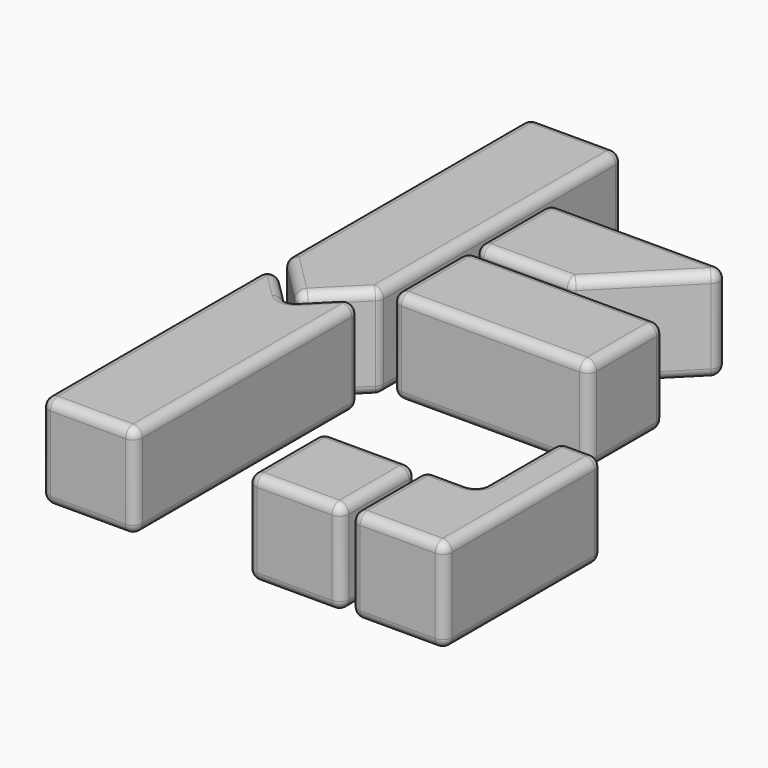
from build123d import *

# Parameters (mm, degrees)
F2_DEPTH = 10
F1_W     = 20
F1_H     = 20
F4_R     = 2
F5_R     = 2
F6_R     = 2
F7_R     = 2
F8_R     = 2
F9_R     = 2


with BuildPart() as f2:
    # F1 (on Top) → F2 (new body, symmetric)
    with BuildSketch(Plane.XY):
        Polygon((-23, 0), (-23, 9), (-23, 12), (-23, 27), (-23, 41.5857864376), (-33, 31.5857864376), (-43, 41.5857864376), (-43, -21), (-23, -21), align=None)
    extrude(amount=F2_DEPTH, both=True)

    # F9
    f9_edges = [f2.edges().sort_by_distance(p)[0] for p in [
        (-23, 10.292893, 10),
        (-28, 36.585786, 10),
        (-38, 36.585786, 10),
        (-43, 10.292893, 10),
        (-33, -21, 10),
        (-23, 41.585786, 0),
        (-23, -21, 0),
        (-23, 10.292893, -10),
        (-28, 36.585786, -10),
        (-38, 36.585786, -10),
        (-43, 10.292893, -10),
        (-33, -21, -10),
        (-43, 41.585786, 0),
        (-43, -21, 0),
        (-33, 31.585786, 0),
    ]]
    fillet(f9_edges, radius=F9_R)


with BuildPart() as f2b:
    # F1 (on Top) → F2, piece 2 (new body, symmetric)
    with BuildSketch(Plane.XY):
        Polygon((-33, 34.4142135624), (-23, 44.4142135624), (-23, 109), (-43, 109), (-43, 44.4142135624), align=None)
    extrude(amount=F2_DEPTH, both=True)

    # F8
    f8_edges = [f2b.edges().sort_by_distance(p)[0] for p in [
        (-28, 39.414214, -10),
        (-23, 76.707107, -10),
        (-33, 109, -10),
        (-43, 76.707107, -10),
        (-38, 39.414214, -10),
        (-23, 44.414214, 0),
        (-23, 109, 0),
        (-23, 76.707107, 10),
        (-28, 39.414214, 10),
        (-33, 109, 10),
        (-43, 76.707107, 10),
        (-38, 39.414214, 10),
        (-43, 44.414214, 0),
        (-43, 109, 0),
        (-33, 34.414214, 0),
    ]]
    fillet(f8_edges, radius=F8_R)


with BuildPart() as f2c:
    # F1 (on Top) → F2, piece 3 (new body, symmetric)
    with BuildSketch(Plane.XY):
        with Locations((-11, 99)):
            Rectangle(F1_W, F1_H)
    extrude(amount=F2_DEPTH, both=True)


with BuildPart() as f2d:
    # F1 (on Top) → F2, piece 4 (new body, symmetric)
    with BuildSketch(Plane.XY):
        with Locations((11, 99)):
            Rectangle(F1_W, F1_H)
    extrude(amount=F2_DEPTH, both=True)


with BuildPart() as f2e:
    # F1 (on Top) → F2, piece 5 (new body, symmetric)
    with BuildSketch(Plane.XY):
        with Locations((33, 99)):
            Rectangle(F1_W, F1_H)
    extrude(amount=F2_DEPTH, both=True)


with BuildPart() as f2f:
    # F1 (on Top) → F2, piece 6 (new body, symmetric)
    with BuildSketch(Plane.XY):
        Polygon((-0.4142135624, 67), (19.5857864376, 87), (0, 87), (-21, 87), (-21, 67), align=None)
    extrude(amount=F2_DEPTH, both=True)

    # F7
    f7_edges = [f2f.edges().sort_by_distance(p)[0] for p in [
        (9.585786, 77, 10),
        (-0.707107, 87, 10),
        (-21, 77, 10),
        (-10.707107, 67, 10),
        (-21, 87, 0),
        (-21, 77, -10),
        (-21, 67, 0),
        (9.585786, 77, -10),
        (-0.707107, 87, -10),
        (-10.707107, 67, -10),
        (19.585786, 87, 0),
        (-0.414214, 67, 0),
    ]]
    fillet(f7_edges, radius=F7_R)


with BuildPart() as f2g:
    # F1 (on Top) → F2, piece 7 (new body, symmetric)
    with BuildSketch(Plane.XY):
        Polygon((43, 87), (22.4142135624, 87), (2.4142135624, 67), (27, 67), (43, 67), align=None)
    extrude(amount=F2_DEPTH, both=True)


with BuildPart() as f2h:
    # F1 (on Top) → F2, piece 8 (new body, symmetric)
    with BuildSketch(Plane.XY):
        Polygon((-21, 45), (21, 45), (21, 65), (0, 65), (-21, 65), align=None)
    extrude(amount=F2_DEPTH, both=True)

    # F5
    f5_edges = [f2h.edges().sort_by_distance(p)[0] for p in [
        (21, 45, 0),
        (21, 55, -10),
        (21, 65, 0),
        (21, 55, 10),
        (0, 45, -10),
        (0, 45, 10),
        (-21, 45, 0),
        (0, 65, 10),
        (-21, 55, 10),
        (0, 65, -10),
        (-21, 55, -10),
        (-21, 65, 0),
    ]]
    fillet(f5_edges, radius=F5_R)


with BuildPart() as f2i:
    # F1 (on Top) → F2, piece 9 (new body, symmetric)
    with BuildSketch(Plane.XY):
        with Locations((33, 55)):
            Rectangle(F1_W, F1_H)
    extrude(amount=F2_DEPTH, both=True)


with BuildPart() as f2j:
    # F1 (on Top) → F2, piece 10 (new body, symmetric)
    with BuildSketch(Plane.XY):
        Polygon((-21, 43), (-21, 23), (0, 23), (21, 23), (21, 43), align=None)
    extrude(amount=F2_DEPTH, both=True)


with BuildPart() as f2k:
    # F1 (on Top) → F2, piece 11 (new body, symmetric)
    with BuildSketch(Plane.XY):
        Polygon((23, 1), (32, 1), (32, 23), (43, 23), (43, 43), (23, 43), (23, 27), align=None)
    extrude(amount=F2_DEPTH, both=True)


with BuildPart() as f2l:
    # F1 (on Top) → F2, piece 12 (new body, symmetric)
    with BuildSketch(Plane.XY):
        Polygon((34, 21), (34, -1), (23, -1), (23, -21), (43, -21), (43, 21), align=None)
    extrude(amount=F2_DEPTH, both=True)

    # F6
    f6_edges = [f2l.edges().sort_by_distance(p)[0] for p in [
        (34, 10, -10),
        (28.5, -1, -10),
        (23, -11, -10),
        (33, -21, -10),
        (43, 0, -10),
        (38.5, 21, -10),
        (34, 10, 10),
        (28.5, -1, 10),
        (23, -11, 10),
        (33, -21, 10),
        (43, 0, 10),
        (38.5, 21, 10),
        (34, 21, 0),
        (43, 21, 0),
        (34, -1, 0),
        (23, -1, 0),
        (23, -21, 0),
        (43, -21, 0),
    ]]
    fillet(f6_edges, radius=F6_R)


with BuildPart() as f2m:
    # F1 (on Top) → F2, piece 13 (new body, symmetric)
    with BuildSketch(Plane.XY):
        with Locations((-11, 11)):
            Rectangle(F1_W, F1_H)
    extrude(amount=F2_DEPTH, both=True)


with BuildPart() as f2n:
    # F1 (on Top) → F2, piece 14 (new body, symmetric)
    with BuildSketch(Plane.XY):
        with Locations((11, 11)):
            Rectangle(F1_W, F1_H)
    extrude(amount=F2_DEPTH, both=True)


with BuildPart() as f2o:
    # F1 (on Top) → F2, piece 15 (new body, symmetric)
    with BuildSketch(Plane.XY):
        with Locations((-11, -11)):
            Rectangle(F1_W, F1_H)
    extrude(amount=F2_DEPTH, both=True)


with BuildPart() as f2p:
    # F1 (on Top) → F2, piece 16 (new body, symmetric)
    with BuildSketch(Plane.XY):
        with Locations((11, -11)):
            Rectangle(F1_W, F1_H)
    extrude(amount=F2_DEPTH, both=True)

    # F4
    f4_edges = [f2p.edges().sort_by_distance(p)[0] for p in [
        (1, -11, 10),
        (11, -21, 10),
        (21, -11, 10),
        (11, -1, 10),
        (1, -11, -10),
        (11, -21, -10),
        (21, -11, -10),
        (11, -1, -10),
        (1, -21, 0),
        (21, -21, 0),
        (1, -1, 0),
        (21, -1, 0),
    ]]
    fillet(f4_edges, radius=F4_R)


solid = Compound([f2.part, f2b.part, f2f.part, f2h.part, f2l.part, f2p.part])
